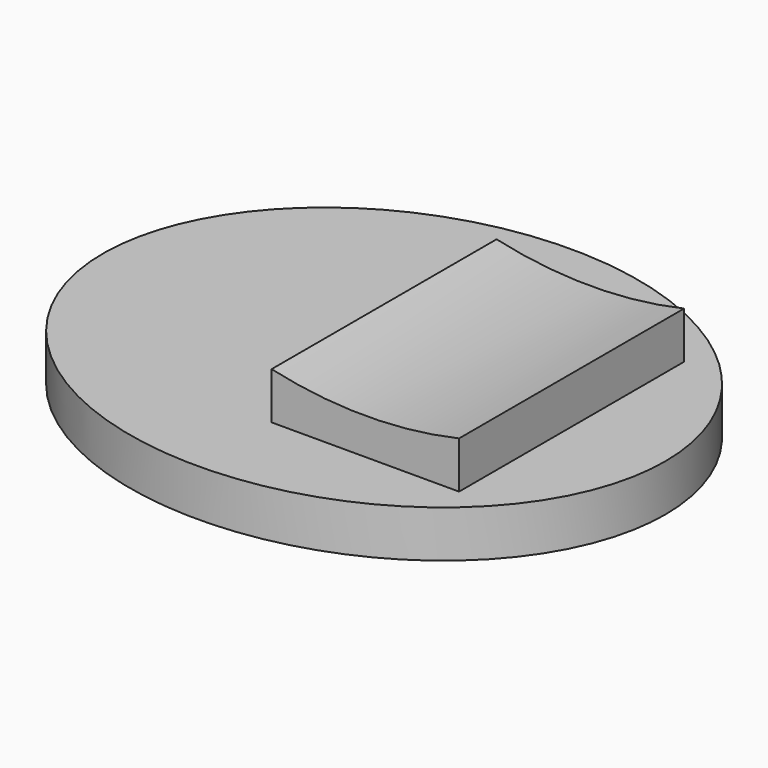
from build123d import *

# Parameters (mm, degrees)
F1_DEPTH = 12.7
F2_DEPTH = 25.4
F4_DEPTH = 101.601


with BuildPart() as f1:
    # F0 (on Top) → F1 (new body)
    with BuildSketch(Plane.XY):
        with BuildLine():
            add(Edge.make_bspline(
                [(76.2, 0), (76.2, 109.985226), (-38.1, 54.992613), (-152.4, 0), (-38.1, -54.992613), (76.2, -109.985226), (76.2, 0)],
                knots=[0, 0, 0, 2.094395, 2.094395, 4.18879, 4.18879, 6.283185, 6.283185, 6.283185], degree=2, weights=[1, 0.5, 1, 0.5, 1, 0.5, 1]))
        make_face()
        Polygon((0, -38.1), (0, 0), (0, 38.1), (50.8, 38.1), (50.8, -38.1), align=None, mode=Mode.SUBTRACT)
    extrude(amount=F1_DEPTH)

    # F0 (on Top) → F2 (join)
    with BuildSketch(Plane.XY):
        Polygon((0, 38.1), (0, 0), (0, -38.1), (50.8, -38.1), (50.8, 38.1), align=None)
    extrude(amount=F2_DEPTH)

    # F3 (on face) → F4 (cut, through all)
    with BuildSketch(Plane.XZ.offset(38.1)):
        with BuildLine():
            Line((50.8, 25.4), (0, 25.4))
            ThreePointArc((0, 25.4), (25.4, 22.542048), (50.8, 25.4))
        make_face()
    extrude(amount=-F4_DEPTH, mode=Mode.SUBTRACT)


solid = f1.part
